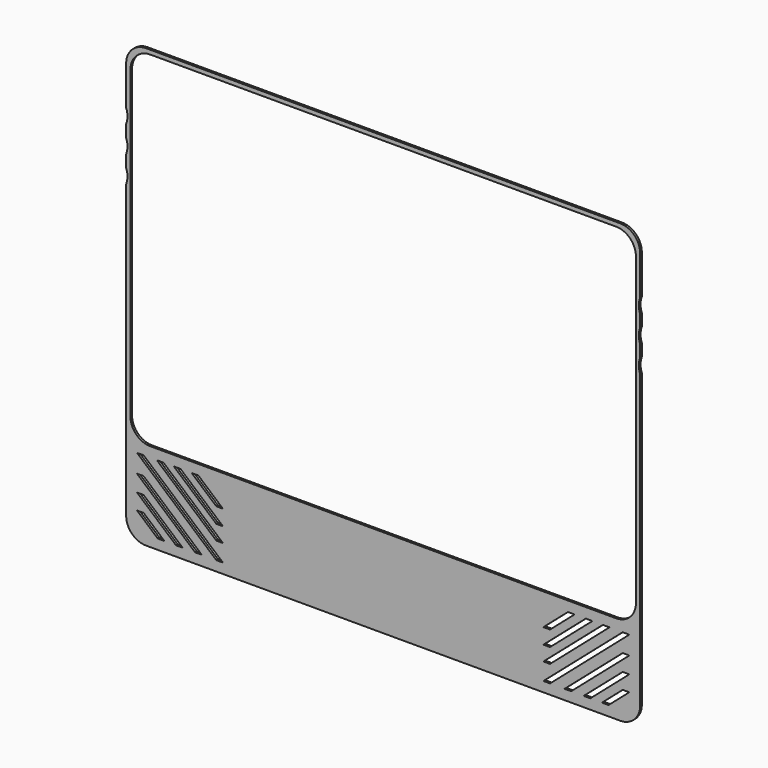
from build123d import *

# Parameters (mm, degrees)
F2_DEPTH = 2.032
F3_DEPTH = 2.54
F5_DEPTH = 25.4
F7_DEPTH = 25.4


with BuildPart() as f2:
    # F0 (on Front) → F2 (new body)
    with BuildSketch(Plane.XZ):
        with BuildLine():
            ThreePointArc((246.888, 191.262), (241.308384, 204.732384), (227.838, 210.312))
            Line((227.838, 210.312), (-227.838, 210.312))
            ThreePointArc((-227.838, 210.312), (-241.308384, 204.732384), (-246.888, 191.262))
            Line((-246.888, 191.262), (-246.888, -191.262))
            ThreePointArc((-246.888, -191.262), (-241.308384, -204.732384), (-227.838, -210.312))
            Line((-227.838, -210.312), (227.838, -210.312))
            ThreePointArc((227.838, -210.312), (241.308384, -204.732384), (246.888, -191.262))
            Line((246.888, -191.262), (246.888, 191.262))
        make_face()
    extrude(amount=F2_DEPTH)

    # F1 (on Front) → F3 (cut)
    with BuildSketch(Plane.XZ):
        with BuildLine():
            Line((223.774, 206.248), (-223.774, 206.248))
            ThreePointArc((-223.774, 206.248), (-237.244384, 200.668384), (-242.824, 187.198))
            Line((-242.824, 187.198), (-242.824, -105.918))
            ThreePointArc((-242.824, -105.918), (-237.244384, -119.388384), (-223.774, -124.968))
            Line((-223.774, -124.968), (223.774, -124.968))
            ThreePointArc((223.774, -124.968), (237.244384, -119.388384), (242.824, -105.918))
            Line((242.824, -105.918), (242.824, 187.198))
            ThreePointArc((242.824, 187.198), (237.244384, 200.668384), (223.774, 206.248))
        make_face()
    extrude(amount=F3_DEPTH, mode=Mode.SUBTRACT)

    # F4 (on Front) → F5 (cut)
    with BuildSketch(Plane.XZ):
        Polygon((-230.124, -134.664931), (-236.474, -134.664931), (-160.274, -200.704931), (-153.924, -200.704931), align=None)
        Polygon((-211.074, -134.664931), (-217.424, -134.664931), (-160.274, -184.194931), (-153.924, -184.194931), align=None)
        Polygon((-230.124, -152.281931), (-236.474, -152.281931), (-180.601308, -200.704931), (-174.251308, -200.704931), align=None)
        Polygon((-230.124, -168.226628), (-236.474, -168.226628), (-198.999035, -200.704931), (-192.649035, -200.704931), align=None)
        Polygon((-230.124, -183.399803), (-236.474, -183.399803), (-216.506545, -200.704931), (-210.156545, -200.704931), align=None)
        Polygon((-160.274, -169.990187), (-153.924, -169.990187), (-194.683911, -134.664931), (-201.033911, -134.664931), align=None)
        Polygon((-160.274, -155.138477), (-153.924, -155.138477), (-177.547322, -134.664931), (-183.897322, -134.664931), align=None)
        Polygon((160.274, -184.194931), (217.424, -134.664931), (211.074, -134.664931), (153.924, -184.194931), align=None)
        Polygon((160.274, -200.704931), (236.474, -134.664931), (230.124, -134.664931), (153.924, -200.704931), align=None)
        Polygon((160.274, -169.990187), (201.033911, -134.664931), (194.683911, -134.664931), (153.924, -169.990187), align=None)
        Polygon((177.547322, -134.664931), (153.924, -155.138477), (160.274, -155.138477), (183.897322, -134.664931), align=None)
        Polygon((198.999035, -200.704931), (236.474, -168.226628), (230.124, -168.226628), (192.649035, -200.704931), align=None)
        Polygon((230.124, -152.281931), (174.251308, -200.704931), (180.601308, -200.704931), (236.474, -152.281931), align=None)
        Polygon((230.124, -183.399803), (210.156545, -200.704931), (216.506545, -200.704931), (236.474, -183.399803), align=None)
    extrude(amount=F5_DEPTH, mode=Mode.SUBTRACT)

    # F6 (on Front) → F7 (cut)
    with BuildSketch(Plane.XZ):
        with BuildLine():
            ThreePointArc((278.867032, 134.112), (282.463983, 140.014539), (283.718, 146.812))
            ThreePointArc((283.718, 146.812), (257.870539, 164.607983), (250.468968, 134.112))
            ThreePointArc((250.468968, 134.112), (264.668, 140.462), (278.867032, 134.112))
        make_face()
        with BuildLine():
            ThreePointArc((278.867032, 134.112), (264.668, 127.762), (250.468968, 134.112))
            ThreePointArc((250.468968, 134.112), (245.618, 121.412), (250.468968, 108.712))
            ThreePointArc((250.468968, 108.712), (264.668, 115.062), (278.867032, 108.712))
            ThreePointArc((278.867032, 108.712), (282.463983, 114.614539), (283.718, 121.412))
            ThreePointArc((283.718, 121.412), (282.463983, 128.209461), (278.867032, 134.112))
        make_face()
        with BuildLine():
            ThreePointArc((278.867032, 108.712), (264.668, 102.362), (250.468968, 108.712))
            ThreePointArc((250.468968, 108.712), (257.870539, 78.216017), (283.718, 96.012))
            ThreePointArc((283.718, 96.012), (282.463983, 102.809461), (278.867032, 108.712))
        make_face()
        with BuildLine():
            ThreePointArc((-250.468968, 134.112), (-246.872017, 140.014539), (-245.618, 146.812))
            ThreePointArc((-245.618, 146.812), (-271.465461, 164.607983), (-278.867032, 134.112))
            ThreePointArc((-278.867032, 134.112), (-264.668, 140.462), (-250.468968, 134.112))
        make_face()
        with BuildLine():
            ThreePointArc((-250.468968, 134.112), (-264.668, 127.762), (-278.867032, 134.112))
            ThreePointArc((-278.867032, 134.112), (-283.718, 121.412), (-278.867032, 108.712))
            ThreePointArc((-278.867032, 108.712), (-264.668, 115.062), (-250.468968, 108.712))
            ThreePointArc((-250.468968, 108.712), (-246.872017, 114.614539), (-245.618, 121.412))
            ThreePointArc((-245.618, 121.412), (-246.872017, 128.209461), (-250.468968, 134.112))
        make_face()
        with BuildLine():
            ThreePointArc((-250.468968, 108.712), (-264.668, 102.362), (-278.867032, 108.712))
            ThreePointArc((-278.867032, 108.712), (-271.465461, 78.216017), (-245.618, 96.012))
            ThreePointArc((-245.618, 96.012), (-246.872017, 102.809461), (-250.468968, 108.712))
        make_face()
    extrude(amount=F7_DEPTH, mode=Mode.SUBTRACT)


solid = f2.part
